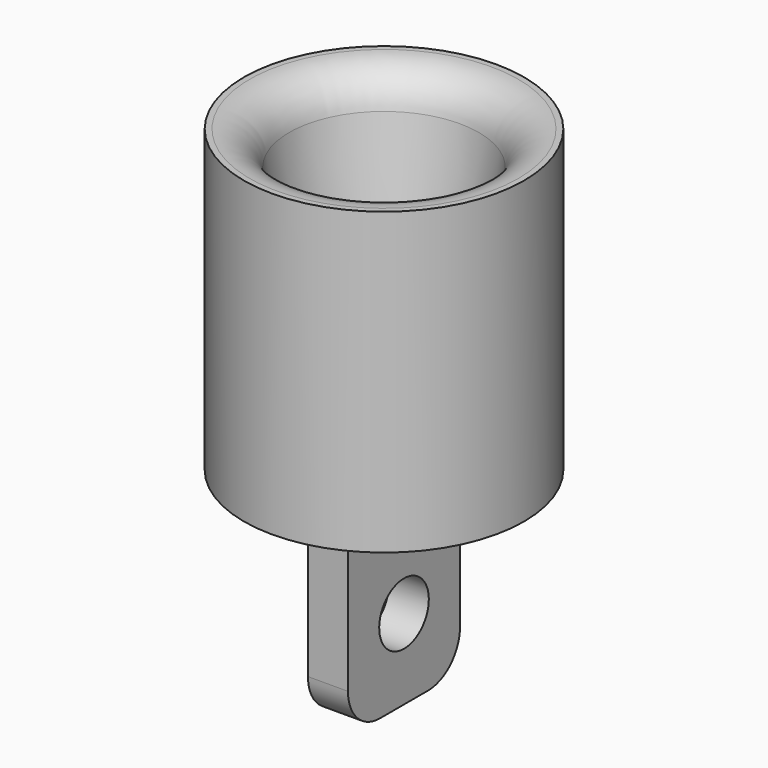
from build123d import *

# Parameters (mm, degrees)
SKETCH001_W     = 2
SKETCH001_H     = 7
PAD_DEPTH       = 10
FILLET_R        = 1
FILLET001_R     = 1
FILLET002_R     = 1
FILLET003_R     = 1
FILLET004_R     = 2
SKETCH002_R     = 1.55
POCKET_DEPTH    = 5
SKETCH003_W     = 2
SKETCH003_H     = 2
POCKET001_DEPTH = 2.5


with BuildPart() as part:
    # Sketch → Revolution (revolve)
    with BuildSketch(Plane.XZ):
        Polygon((0, 0), (0, 2), (3, 2), (5, 15), (7, 15), (7, 0), align=None)
    revolve(axis=Axis((0, 0, 0), (0, 0, 1)))

    # Sketch001 (on Face5 of Revolution) → Pad (new body)
    with BuildSketch(Plane(origin=(0, 0, 0), x_dir=(1, 0, 0), z_dir=(0, 0, -1))):
        Rectangle(SKETCH001_W, SKETCH001_H)
    extrude(amount=PAD_DEPTH)

    # Fillet
    fillet_edges = [part.edges().sort_by_distance(p)[0] for p in [
        (1, 0, 0),
    ]]
    fillet(fillet_edges, radius=FILLET_R)

    # Fillet001
    fillet001_edges = [part.edges().sort_by_distance(p)[0] for p in [
        (-1, 0, 0),
    ]]
    fillet(fillet001_edges, radius=FILLET001_R)

    # Fillet002
    fillet002_edges = [part.edges().sort_by_distance(p)[0] for p in [
        (0, -3.5, 0),
    ]]
    fillet(fillet002_edges, radius=FILLET002_R)

    # Fillet003
    fillet003_edges = [part.edges().sort_by_distance(p)[0] for p in [
        (0, 3.5, 0),
    ]]
    fillet(fillet003_edges, radius=FILLET003_R)

    # Fillet004
    fillet004_edges = [part.edges().sort_by_distance(p)[0] for p in [
        (-5, 0, 15),
        (0, 3.5, -10),
        (0, -3.5, -10),
    ]]
    fillet(fillet004_edges, radius=FILLET004_R)

    # Sketch002 → Pocket (cut)
    with BuildSketch(Plane(origin=(-1, 0, 0), x_dir=(0, 0, -1), z_dir=(-1, 0, 0))):
        with Locations((6, 0)):
            Circle(SKETCH002_R)
    extrude(amount=-POCKET_DEPTH, mode=Mode.SUBTRACT)

    # Sketch003 (on Face12 of Pocket) → Pocket001 (cut, symmetric)
    with BuildSketch(Plane(origin=(0, 0, 0), x_dir=(1, 0, 0), z_dir=(0, 0, -1))):
        with Locations((-2, 0)):
            Rectangle(SKETCH003_W, SKETCH003_H)
        with Locations((2, 0)):
            Rectangle(SKETCH003_W, SKETCH003_H)
    extrude(amount=POCKET001_DEPTH, both=True, mode=Mode.SUBTRACT)


solid = part.part
